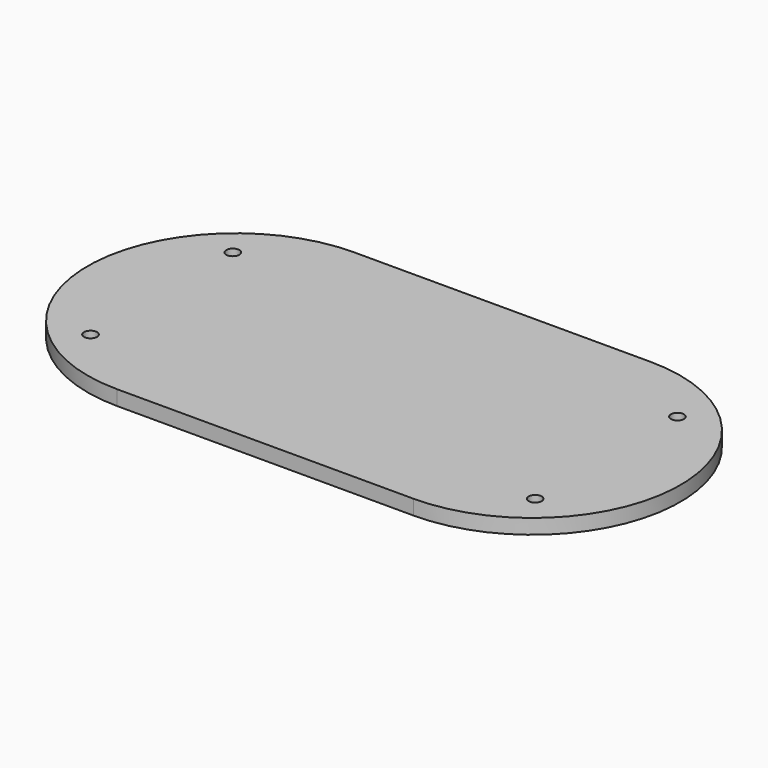
from build123d import *

# Parameters (mm, degrees)
F0_W     = 100
F0_H     = 100
F1_DEPTH = 5
F3_D     = 4.4


with BuildPart() as f1:
    # F0 (on Top) → F1 (new body)
    with BuildSketch(Plane.XY):
        Rectangle(F0_W, F0_H)
        with BuildLine():
            ThreePointArc((50, -50), (100, 0), (50, 50))
            Line((50, 50), (50, -50))
        make_face()
        with BuildLine():
            Line((-50, -50), (-50, 50))
            ThreePointArc((-50, 50), (-100, 0), (-50, -50))
        make_face()
    extrude(amount=F1_DEPTH)

    # F3 (through all)
    with Locations(Plane.XY.offset(5)):
        with Locations((-75, 30), (75, 30), (75, -30), (-75, -30)):
            Hole(F3_D / 2)


solid = f1.part
